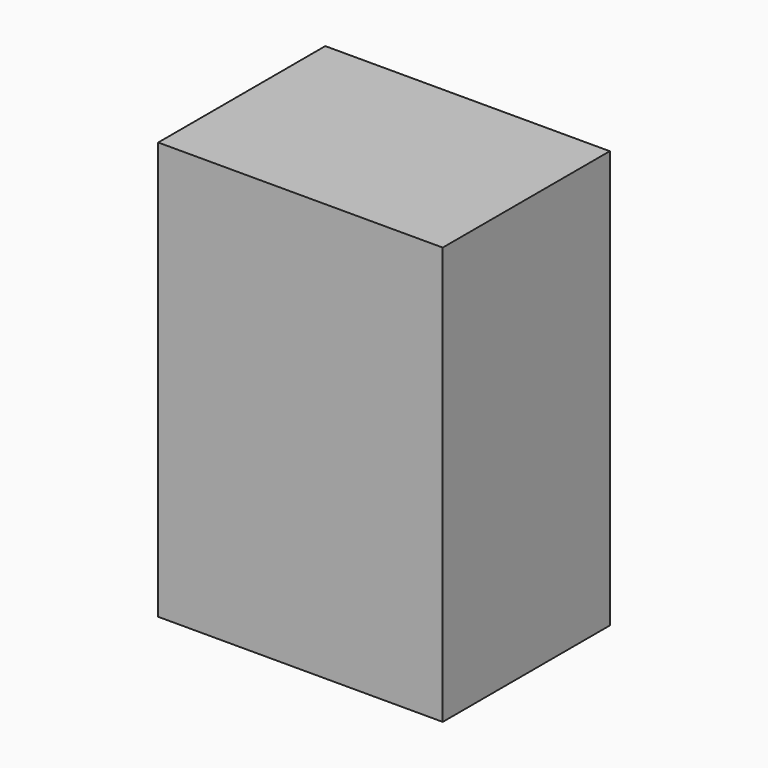
from build123d import *

# Parameters (mm, degrees)
F0_W     = 68.131798
F0_H     = 50
F1_DEPTH = 50


with BuildPart() as f1:
    # F0 (on Front) → F1 (new body)
    with BuildSketch(Plane.XZ):
        with Locations((34.065899, 25)):
            Rectangle(F0_W, F0_H)
    extrude(amount=F1_DEPTH)

    # F2: F1 across plane


with BuildPart() as f1_1:
    add(f1.part)
    add(f1.part.mirror(Plane.XY))


solid = f1_1.part
